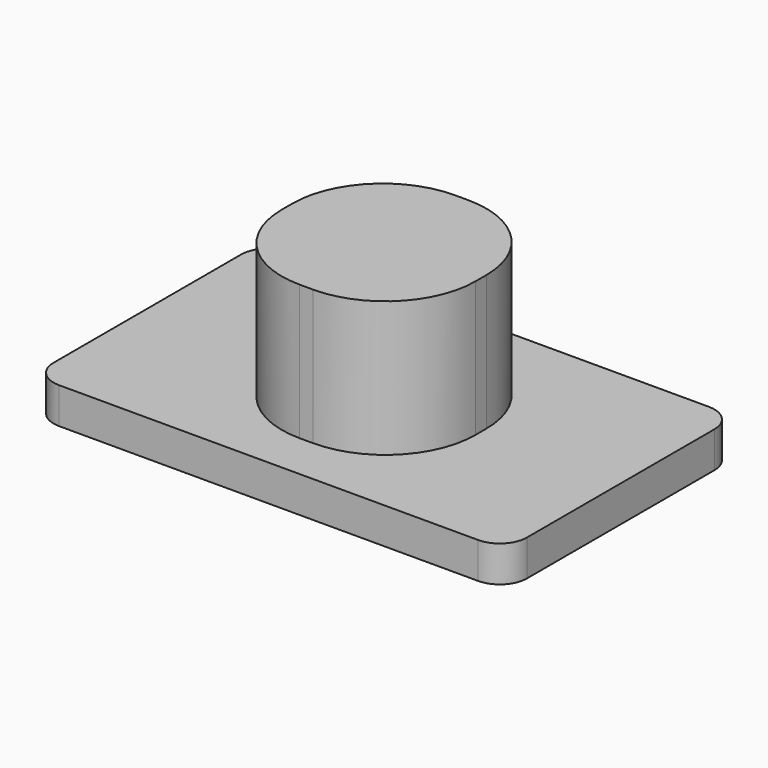
from build123d import *

# Parameters (mm, degrees)
F0_W     = 10.5
F0_H     = 6.4
F1_DEPTH = 0.8
F2_W     = 4.3
F2_H     = 4.3
F3_DEPTH = 3
F4_R     = 2
F5_R     = 0.6
F6_W     = 1.8
F6_H     = 1.8
F7_DEPTH = 2.5


with BuildPart() as f1:
    # F0 (on Top) → F1 (new body)
    with BuildSketch(Plane.XY):
        Rectangle(F0_W, F0_H)
    extrude(amount=F1_DEPTH)

    # F2 (on face) → F3 (join)
    with BuildSketch(Plane.XY.offset(0.8)):
        Rectangle(F2_W, F2_H)
    extrude(amount=F3_DEPTH)

    # F4
    f4_edges = [f1.edges().sort_by_distance(p)[0] for p in [
        (-2.15, -2.15, 2.3),
        (-2.15, 2.15, 2.3),
        (2.15, -2.15, 2.3),
        (2.15, 2.15, 2.3),
    ]]
    fillet(f4_edges, radius=F4_R)

    # F5
    f5_edges = [f1.edges().sort_by_distance(p)[0] for p in [
        (-5.25, -3.2, 0.4),
        (-5.25, 3.2, 0.4),
        (5.25, -3.2, 0.4),
        (5.25, 3.2, 0.4),
    ]]
    fillet(f5_edges, radius=F5_R)

    # F6 (on face) → F7 (cut)
    with BuildSketch(Plane(origin=(0, 0, 0), x_dir=(1, 0, 0), z_dir=(0, 0, -1))):
        Rectangle(F6_W, F6_H)
    extrude(amount=-F7_DEPTH, mode=Mode.SUBTRACT)


solid = f1.part
